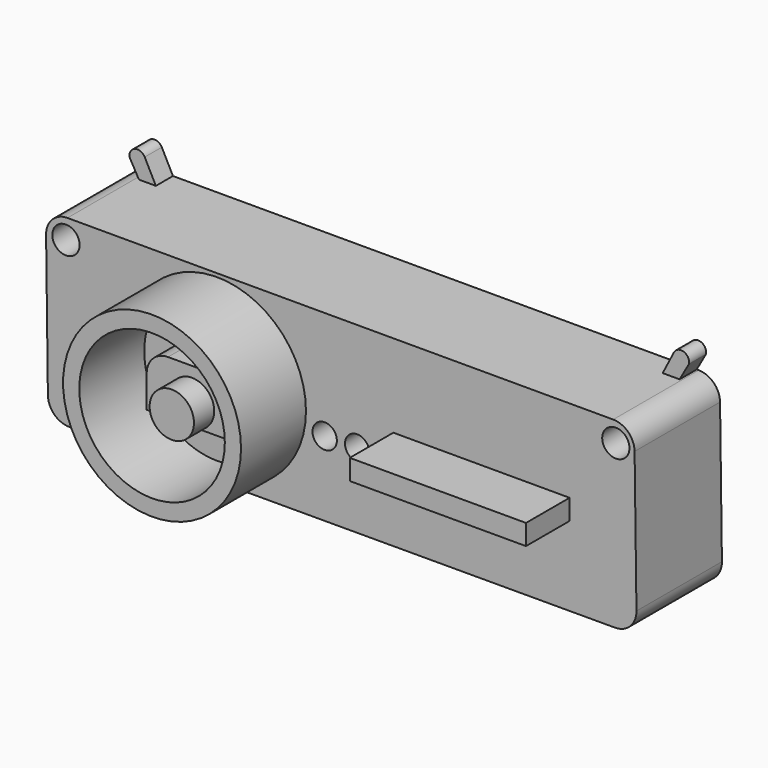
from build123d import *

# Parameters (mm, degrees)
F0_R      = 2.895724
F0_R_2    = 3.241562
F1_DEPTH  = 25.4
F2_R      = 5.08
F3_DEPTH  = 5.08
F5_DEPTH  = 32.3342
F6_R      = 5.08
F7_R      = 5.276508
F8_DEPTH  = 38.354
F9_R      = 21.156257
F9_R_2    = 17.306623
F10_DEPTH = 44.704
F12_DEPTH = 38.354


with BuildPart() as f1:
    # F0 (on Front) → F1 (new body)
    with BuildSketch(Plane.XZ):
        Polygon((70.342824, -21.445718), (69.763908, 21.972595), (64.276244, 21.972595), (60.254056, 21.972595), (-60.254056, 21.972595), (-64.276244, 21.972595), (-70.167677, 21.972595), (-69.607526, -21.638222), align=None)
        with Locations((-3.860941, -3.798458)):
            Circle(F0_R, mode=Mode.SUBTRACT)
        with Locations((3.860941, -3.798458)):
            Circle(F0_R, mode=Mode.SUBTRACT)
        with Locations((-65.373771, 17.245404)):
            Circle(F0_R_2, mode=Mode.SUBTRACT)
        with Locations((65.373771, 17.245404)):
            Circle(F0_R_2, mode=Mode.SUBTRACT)
    extrude(amount=F1_DEPTH)

    # F2
    f2_edges = [f1.edges().sort_by_distance(p)[0] for p in [
        (69.763908, -12.7, 21.972595),
        (-70.167677, -12.7, 21.972595),
        (-69.607526, -12.7, -21.638222),
        (70.342824, -12.7, -21.445718),
    ]]
    fillet(f2_edges, radius=F2_R)

    # F0 (on Front) → F3 (join)
    with BuildSketch(Plane.XZ):
        with BuildLine():
            Line((-64.276244, 21.972595), (-60.254056, 21.972595))
            Line((-60.254056, 21.972595), (-62.904059, 27.139447))
            ThreePointArc((-62.904059, 27.139447), (-65.222607, 28.088801), (-66.516974, 25.943679))
            Line((-66.516974, 25.943679), (-64.276244, 21.972595))
        make_face()
        with BuildLine():
            Line((60.254056, 21.972595), (64.276244, 21.972595))
            Line((64.276244, 21.972595), (66.516974, 25.943679))
            ThreePointArc((66.516974, 25.943679), (65.222607, 28.088801), (62.904059, 27.139447))
            Line((62.904059, 27.139447), (60.254056, 21.972595))
        make_face()
    extrude(amount=F3_DEPTH)

    # F4 (on Front) → F5 (join)
    with BuildSketch(Plane.XZ):
        Polygon((-19.896746, 5.259533), (-40.63455, 5.259533), (-40.63455, -7.440129), (-19.802189, -7.440129), align=None)
    extrude(amount=F5_DEPTH)

    # F6
    f6_edges = [f1.edges().sort_by_distance(p)[0] for p in [
        (-40.63455, -28.8671, 5.259533),
        (-19.896746, -28.8671, 5.259533),
    ]]
    fillet(f6_edges, radius=F6_R)

    # F7 (on Front) → F8 (join)
    with BuildSketch(Plane.XZ):
        with Locations((-29.851345, -2.50347)):
            Circle(F7_R)
    extrude(amount=F8_DEPTH)

    # F9 (on Front) → F10 (join)
    with BuildSketch(Plane.XZ):
        with Locations((-29.464282, 0)):
            Circle(F9_R)
        with Locations((-29.464282, 0)):
            Circle(F9_R_2, mode=Mode.SUBTRACT)
    extrude(amount=F10_DEPTH)

    # F11 (on Front) → F12 (join)
    with BuildSketch(Plane.XZ):
        Polygon((54.370172, 2.222606), (12.467819, 2.222606), (12.476523, -2.632661), (54.370172, -2.632661), align=None)
    extrude(amount=F12_DEPTH)


solid = f1.part
